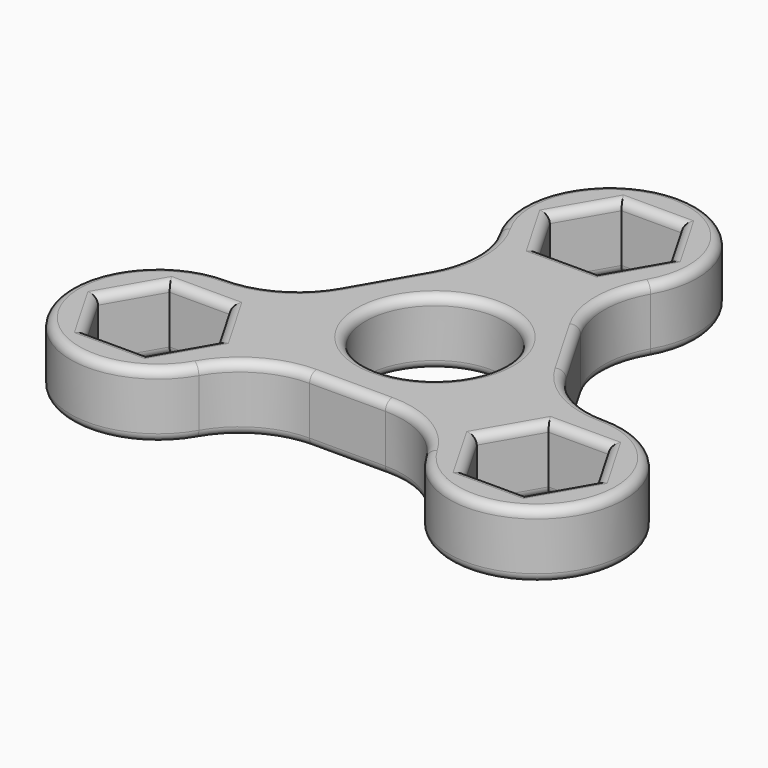
from build123d import *

# Parameters (mm, degrees)
F0_R     = 15.9
F1_DEPTH = 15
F3_DEPTH = 25
F4_R     = 2
F5_R     = 2


with BuildPart() as f1:
    # F0 (on Top) → F1 (new body)
    with BuildSketch(Plane.XY):
        with BuildLine():
            ThreePointArc((17.320508, 20), (14.641016, 30), (17.320508, 40))
            ThreePointArc((17.320508, 40), (0, 70), (-17.320508, 40))
            ThreePointArc((-17.320508, 40), (-14.641016, 30), (-17.320508, 20))
            Line((-17.320508, 20), (-25.980762, 5))
            ThreePointArc((-25.980762, 5), (-33.30127, -2.320508), (-43.30127, -5))
            ThreePointArc((-43.30127, -5), (-60.621778, -35), (-25.980762, -35))
            ThreePointArc((-25.980762, -35), (-18.660254, -27.679492), (-8.660254, -25))
            Line((-8.660254, -25), (8.660254, -25))
            ThreePointArc((8.660254, -25), (18.660254, -27.679492), (25.980762, -35))
            ThreePointArc((25.980762, -35), (60.621778, -35), (43.30127, -5))
            ThreePointArc((43.30127, -5), (33.30127, -2.320508), (25.980762, 5))
            Line((25.980762, 5), (17.320508, 20))
        make_face()
        Circle(F0_R, mode=Mode.SUBTRACT)
    extrude(amount=F1_DEPTH)

    # F2 (on face) → F3 (cut)
    with BuildSketch(Plane.XY.offset(15)):
        Polygon((6.870468, 61.9), (-6.870468, 61.9), (-13.740936, 50), (-6.870468, 38.1), (6.870468, 38.1), (13.740936, 50), align=None)
        Polygon((-36.430802, -13.1), (-50.171738, -13.1), (-57.042207, -25), (-50.171738, -36.9), (-36.430802, -36.9), (-29.560334, -25), align=None)
        Polygon((50.171738, -13.1), (36.430802, -13.1), (29.560334, -25), (36.430802, -36.9), (50.171738, -36.9), (57.042207, -25), align=None)
    extrude(amount=-F3_DEPTH, mode=Mode.SUBTRACT)

    # F4
    f4_edges = [f1.edges().sort_by_distance(p)[0] for p in [
        (14.641016, 30, 15),
        (21.650635, 12.5, 15),
        (0, 70, 15),
        (33.30127, -2.320508, 15),
        (-14.641016, 30, 15),
        (60.621778, -35, 15),
        (-21.650635, 12.5, 15),
        (18.660254, -27.679492, 15),
        (-33.30127, -2.320508, 15),
        (0, -25, 15),
        (-60.621778, -35, 15),
        (-18.660254, -27.679492, 15),
        (-32.995568, -19.05, 15),
        (-43.30127, -13.1, 15),
        (-53.606972, -19.05, 15),
        (-53.606972, -30.95, 15),
        (-43.30127, -36.9, 15),
        (-32.995568, -30.95, 15),
        (43.30127, -13.1, 15),
        (32.995568, -19.05, 15),
        (32.995568, -30.95, 15),
        (43.30127, -36.9, 15),
        (53.606972, -30.95, 15),
        (53.606972, -19.05, 15),
        (-15.9, 0, 15),
        (10.305702, 55.95, 15),
        (0, 61.9, 15),
        (-10.305702, 55.95, 15),
        (-10.305702, 44.05, 15),
        (0, 38.1, 15),
        (10.305702, 44.05, 15),
    ]]
    fillet(f4_edges, radius=F4_R)

    # F5
    f5_edges = [f1.edges().sort_by_distance(p)[0] for p in [
        (14.641016, 30, 0),
        (21.650635, 12.5, 0),
        (0, 70, 0),
        (33.30127, -2.320508, 0),
        (-14.641016, 30, 0),
        (60.621778, -35, 0),
        (-21.650635, 12.5, 0),
        (18.660254, -27.679492, 0),
        (-33.30127, -2.320508, 0),
        (0, -25, 0),
        (-60.621778, -35, 0),
        (-18.660254, -27.679492, 0),
        (-32.995568, -19.05, 0),
        (-43.30127, -13.1, 0),
        (-53.606972, -19.05, 0),
        (-53.606972, -30.95, 0),
        (-43.30127, -36.9, 0),
        (-32.995568, -30.95, 0),
        (43.30127, -13.1, 0),
        (32.995568, -19.05, 0),
        (32.995568, -30.95, 0),
        (43.30127, -36.9, 0),
        (53.606972, -30.95, 0),
        (53.606972, -19.05, 0),
        (-15.9, 0, 0),
        (10.305702, 55.95, 0),
        (0, 61.9, 0),
        (-10.305702, 55.95, 0),
        (-10.305702, 44.05, 0),
        (0, 38.1, 0),
        (10.305702, 44.05, 0),
    ]]
    fillet(f5_edges, radius=F5_R)


solid = f1.part
